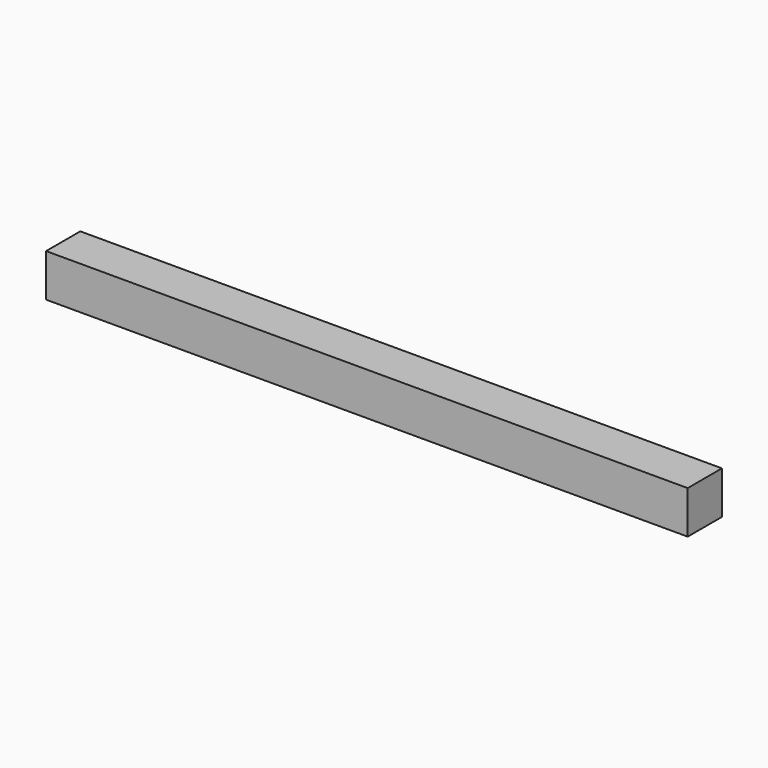
from build123d import *

# Parameters (mm, degrees)
F0_W     = 150
F0_H     = 10
F1_DEPTH = 5
F2_R     = 1.5
F3_DEPTH = 8


with BuildPart() as f1:
    # F0 (on Front) → F1 (new body, symmetric)
    with BuildSketch(Plane.XZ):
        Rectangle(F0_W, F0_H)
    extrude(amount=F1_DEPTH, both=True)

    # F2 (on face) → F3 (cut)
    with BuildSketch(Plane(origin=(0, 0, -5), x_dir=(1, 0, 0), z_dir=(0, 0, -1))):
        with Locations((72, 0)):
            Circle(F2_R)
        with Locations((58, 0)):
            Circle(F2_R)
    extrude(amount=-F3_DEPTH, mode=Mode.SUBTRACT)


solid = f1.part
